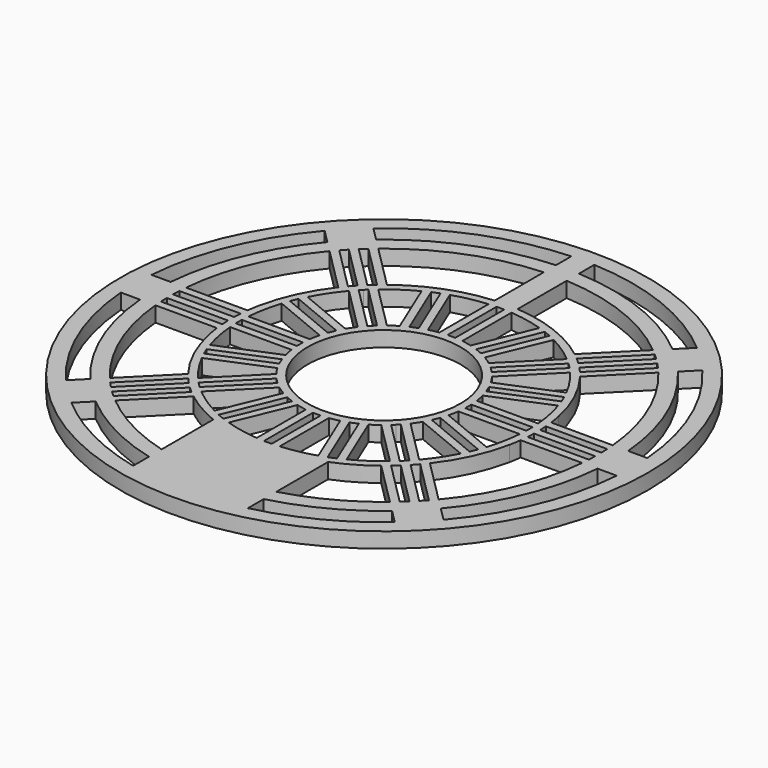
from build123d import *

# Parameters (mm, degrees)
F0_R      = 10
F1_DEPTH  = 2
F3_DEPTH  = 25
F5_DEPTH  = 25
F6_R      = 30
F6_R_2    = 28
F7_DEPTH  = 2
F9_DEPTH  = 25
F10_R     = 34.5
F10_R_2   = 28
F11_DEPTH = 2


with BuildPart() as f1:
    # F0 (on Top) → F1 (new body)
    with BuildSketch(Plane.XY):
        with BuildLine():
            ThreePointArc((0, 30), (-0.750235, 29.990618), (-1.5, 29.962477))
            Line((-1.5, 29.962477), (-1.5, 19.943671))
            ThreePointArc((-1.5, 19.943671), (-7.186984, 18.664063), (-12.263448, 15.798982))
            Line((-12.263448, 15.798982), (-19.371651, 22.907185))
            ThreePointArc((-19.371651, 22.907185), (-21.213203, 21.213203), (-22.907185, 19.371651))
            Line((-22.907185, 19.371651), (-15.798982, 12.263448))
            ThreePointArc((-15.798982, 12.263448), (-18.173356, 8.350396), (-19.595918, 4))
            ThreePointArc((-19.595918, 4), (-19.733784, 3.25235), (-19.843135, 2.5))
            Line((-19.843135, 2.5), (-29.895652, 2.5))
            ThreePointArc((-29.895652, 2.5), (-30, 0), (-29.895652, -2.5))
            Line((-29.895652, -2.5), (-19.843135, -2.5))
            ThreePointArc((-19.843135, -2.5), (-19.733784, -3.25235), (-19.595918, -4))
            ThreePointArc((-19.595918, -4), (-18.173356, -8.350396), (-15.798982, -12.263448))
            Line((-15.798982, -12.263448), (-22.907185, -19.371651))
            ThreePointArc((-22.907185, -19.371651), (-21.213203, -21.213203), (-19.371651, -22.907185))
            Line((-19.371651, -22.907185), (-12.263448, -15.798982))
            ThreePointArc((-12.263448, -15.798982), (-9.976344, -17.334144), (-7.5, -18.540496))
            Line((-7.5, -18.540496), (-7.5, -29.047375))
            ThreePointArc((-7.5, -29.047375), (0, -30), (7.5, -29.047375))
            Line((7.5, -29.047375), (7.5, -18.540496))
            ThreePointArc((7.5, -18.540496), (9.976344, -17.334144), (12.263448, -15.798982))
            Line((12.263448, -15.798982), (19.371651, -22.907185))
            ThreePointArc((19.371651, -22.907185), (21.213203, -21.213203), (22.907185, -19.371651))
            Line((22.907185, -19.371651), (15.798982, -12.263448))
            ThreePointArc((15.798982, -12.263448), (18.173356, -8.350396), (19.595918, -4))
            ThreePointArc((19.595918, -4), (19.733784, -3.25235), (19.843135, -2.5))
            Line((19.843135, -2.5), (29.895652, -2.5))
            ThreePointArc((29.895652, -2.5), (30, 0), (29.895652, 2.5))
            Line((29.895652, 2.5), (19.843135, 2.5))
            ThreePointArc((19.843135, 2.5), (19.733784, 3.25235), (19.595918, 4))
            ThreePointArc((19.595918, 4), (18.173356, 8.350396), (15.798982, 12.263448))
            Line((15.798982, 12.263448), (22.907185, 19.371651))
            ThreePointArc((22.907185, 19.371651), (21.213203, 21.213203), (19.371651, 22.907185))
            Line((19.371651, 22.907185), (12.263448, 15.798982))
            ThreePointArc((12.263448, 15.798982), (7.186984, 18.664063), (1.5, 19.943671))
            Line((1.5, 19.943671), (1.5, 29.962477))
            ThreePointArc((1.5, 29.962477), (0.750235, 29.990618), (0, 30))
        make_face()
        Circle(F0_R, mode=Mode.SUBTRACT)
    extrude(amount=F1_DEPTH)

    # F2 (on face) → F3 (cut)
    with BuildSketch(Plane.XY.offset(2)):
        Polygon((0, 19), (-0.5, 19), (-0.5, 11), (0, 11), (0.5, 11), (0.5, 19), align=None)
        Polygon((4.671458, 9.971333), (7.732925, 17.362369), (7.270985, 17.553711), (6.809045, 17.745053), (3.747578, 10.354017), (4.209518, 10.162675), align=None)
        Polygon((8.131728, 7.424621), (13.788582, 13.081475), (13.435029, 13.435029), (13.081475, 13.788582), (7.424621, 8.131728), (7.778175, 7.778175), align=None)
        Polygon((10.354017, 3.747578), (17.745053, 6.809045), (17.553711, 7.270985), (17.362369, 7.732925), (9.971333, 4.671458), (10.162675, 4.209518), align=None)
        Polygon((11, -0.5), (19, -0.5), (19, 0), (19, 0.5), (11, 0.5), (11, 0), align=None)
        Polygon((9.971333, -4.671458), (17.362369, -7.732925), (17.553711, -7.270985), (17.745053, -6.809045), (10.354017, -3.747578), (10.162675, -4.209518), align=None)
        Polygon((7.424621, -8.131728), (13.081475, -13.788582), (13.435029, -13.435029), (13.788582, -13.081475), (8.131728, -7.424621), (7.778175, -7.778175), align=None)
        Polygon((3.747578, -10.354017), (6.809045, -17.745053), (7.270985, -17.553711), (7.732925, -17.362369), (4.671458, -9.971333), (4.209518, -10.162675), align=None)
        Polygon((-0.5, -11), (-0.5, -19), (0, -19), (0.5, -19), (0.5, -11), (0, -11), align=None)
        Polygon((-13.435029, 13.435029), (-13.788582, 13.081475), (-8.131728, 7.424621), (-7.778175, 7.778175), (-7.424621, 8.131728), (-13.081475, 13.788582), align=None)
        Polygon((-11, 0.5), (-19, 0.5), (-19, 0), (-19, -0.5), (-11, -0.5), (-11, 0), align=None)
        Polygon((-10.354017, -3.747578), (-17.745053, -6.809045), (-17.553711, -7.270985), (-17.362369, -7.732925), (-9.971333, -4.671458), (-10.162675, -4.209518), align=None)
        Polygon((-7.778175, -7.778175), (-8.131728, -7.424621), (-13.788582, -13.081475), (-13.435029, -13.435029), (-13.081475, -13.788582), (-7.424621, -8.131728), align=None)
        Polygon((-17.553711, 7.270985), (-17.745053, 6.809045), (-10.354017, 3.747578), (-10.162675, 4.209518), (-9.971333, 4.671458), (-17.362369, 7.732925), align=None)
        Polygon((-7.270985, -17.553711), (-6.809045, -17.745053), (-3.747578, -10.354017), (-4.209518, -10.162675), (-4.671458, -9.971333), (-7.732925, -17.362369), align=None)
        Polygon((-7.270985, 17.553711), (-7.732925, 17.362369), (-4.671458, 9.971333), (-4.209518, 10.162675), (-3.747578, 10.354017), (-6.809045, 17.745053), align=None)
    extrude(amount=-F3_DEPTH, mode=Mode.SUBTRACT)

    # F4 (on face) → F5 (cut)
    with BuildSketch(Plane.XY.offset(2)):
        with BuildLine():
            ThreePointArc((-2.788764, 10.652361), (-2.148209, 10.799778), (-1.5, 10.908712))
            Line((-1.5, 10.908712), (-1.5, 18.93245))
            ThreePointArc((-1.5, 18.93245), (-3.705112, 18.626857), (-5.859316, 18.065328))
            Line((-5.859316, 18.065328), (-2.788764, 10.652361))
        make_face()
        with BuildLine():
            Line((2.788764, 10.652361), (5.859316, 18.065328))
            ThreePointArc((5.859316, 18.065328), (3.705112, 18.626857), (1.5, 18.93245))
            Line((1.5, 18.93245), (1.5, 10.908712))
            ThreePointArc((1.5, 10.908712), (2.148209, 10.799778), (2.788764, 10.652361))
        make_face()
        with BuildLine():
            Line((6.652964, 8.774284), (12.326604, 14.447924))
            ThreePointArc((12.326604, 14.447924), (10.551267, 15.791087), (8.630954, 16.917278))
            Line((8.630954, 16.917278), (5.560403, 9.504311))
            ThreePointArc((5.560403, 9.504311), (6.117583, 9.155609), (6.652964, 8.774284))
        make_face()
        with BuildLine():
            Line((9.504311, 5.560403), (16.917278, 8.630954))
            ThreePointArc((16.917278, 8.630954), (15.791087, 10.551267), (14.447924, 12.326604))
            Line((14.447924, 12.326604), (8.774284, 6.652964))
            ThreePointArc((8.774284, 6.652964), (9.155609, 6.117583), (9.504311, 5.560403))
        make_face()
        with BuildLine():
            Line((10.908712, 1.5), (18.93245, 1.5))
            ThreePointArc((18.93245, 1.5), (18.626857, 3.705112), (18.065328, 5.859316))
            Line((18.065328, 5.859316), (10.652361, 2.788764))
            ThreePointArc((10.652361, 2.788764), (10.799778, 2.148209), (10.908712, 1.5))
        make_face()
        with BuildLine():
            Line((10.652361, -2.788764), (18.065328, -5.859316))
            ThreePointArc((18.065328, -5.859316), (18.626857, -3.705112), (18.93245, -1.5))
            Line((18.93245, -1.5), (10.908712, -1.5))
            ThreePointArc((10.908712, -1.5), (10.799778, -2.148209), (10.652361, -2.788764))
        make_face()
        with BuildLine():
            Line((8.774284, -6.652964), (14.447924, -12.326604))
            ThreePointArc((14.447924, -12.326604), (15.791087, -10.551267), (16.917278, -8.630954))
            Line((16.917278, -8.630954), (9.504311, -5.560403))
            ThreePointArc((9.504311, -5.560403), (9.155609, -6.117583), (8.774284, -6.652964))
        make_face()
        with BuildLine():
            Line((5.560403, -9.504311), (8.630954, -16.917278))
            ThreePointArc((8.630954, -16.917278), (10.551267, -15.791087), (12.326604, -14.447924))
            Line((12.326604, -14.447924), (6.652964, -8.774284))
            ThreePointArc((6.652964, -8.774284), (6.117583, -9.155609), (5.560403, -9.504311))
        make_face()
        with BuildLine():
            Line((1.5, -10.908712), (1.5, -18.93245))
            ThreePointArc((1.5, -18.93245), (3.705112, -18.626857), (5.859316, -18.065328))
            Line((5.859316, -18.065328), (2.788764, -10.652361))
            ThreePointArc((2.788764, -10.652361), (2.148209, -10.799778), (1.5, -10.908712))
        make_face()
        with BuildLine():
            ThreePointArc((-8.630954, 16.917278), (-10.551267, 15.791087), (-12.326604, 14.447924))
            Line((-12.326604, 14.447924), (-6.652964, 8.774284))
            ThreePointArc((-6.652964, 8.774284), (-6.117583, 9.155609), (-5.560403, 9.504311))
            Line((-5.560403, 9.504311), (-8.630954, 16.917278))
        make_face()
        with BuildLine():
            Line((-18.93245, 1.5), (-10.908712, 1.5))
            ThreePointArc((-10.908712, 1.5), (-10.799778, 2.148209), (-10.652361, 2.788764))
            Line((-10.652361, 2.788764), (-18.065328, 5.859316))
            ThreePointArc((-18.065328, 5.859316), (-18.626857, 3.705112), (-18.93245, 1.5))
        make_face()
        with BuildLine():
            Line((-14.447924, -12.326604), (-8.774284, -6.652964))
            ThreePointArc((-8.774284, -6.652964), (-9.155609, -6.117583), (-9.504311, -5.560403))
            Line((-9.504311, -5.560403), (-16.917278, -8.630954))
            ThreePointArc((-16.917278, -8.630954), (-15.791087, -10.551267), (-14.447924, -12.326604))
        make_face()
        with BuildLine():
            Line((-18.065328, -5.859316), (-10.652361, -2.788764))
            ThreePointArc((-10.652361, -2.788764), (-10.799778, -2.148209), (-10.908712, -1.5))
            Line((-10.908712, -1.5), (-18.93245, -1.5))
            ThreePointArc((-18.93245, -1.5), (-18.626857, -3.705112), (-18.065328, -5.859316))
        make_face()
        with BuildLine():
            Line((-16.917278, 8.630954), (-9.504311, 5.560403))
            ThreePointArc((-9.504311, 5.560403), (-9.155609, 6.117583), (-8.774284, 6.652964))
            Line((-8.774284, 6.652964), (-14.447924, 12.326604))
            ThreePointArc((-14.447924, 12.326604), (-15.791087, 10.551267), (-16.917278, 8.630954))
        make_face()
        with BuildLine():
            ThreePointArc((-12.326604, -14.447924), (-10.551267, -15.791087), (-8.630954, -16.917278))
            Line((-8.630954, -16.917278), (-5.560403, -9.504311))
            ThreePointArc((-5.560403, -9.504311), (-6.117583, -9.155609), (-6.652964, -8.774284))
            Line((-6.652964, -8.774284), (-12.326604, -14.447924))
        make_face()
        with BuildLine():
            ThreePointArc((-1.5, -10.908712), (-2.148209, -10.799778), (-2.788764, -10.652361))
            Line((-2.788764, -10.652361), (-5.859316, -18.065328))
            ThreePointArc((-5.859316, -18.065328), (-3.705112, -18.626857), (-1.5, -18.93245))
            Line((-1.5, -18.93245), (-1.5, -10.908712))
        make_face()
    extrude(amount=-F5_DEPTH, mode=Mode.SUBTRACT)

    # F6 (on Top) → F7 (join)
    with BuildSketch(Plane.XY):
        Circle(F6_R)
        Circle(F6_R_2, mode=Mode.SUBTRACT)
    extrude(amount=F7_DEPTH)

    # F8 (on face) → F9 (cut)
    with BuildSketch(Plane.XY.offset(2)):
        with BuildLine():
            ThreePointArc((-19.993749, 0.5), (-19.974969, 1.000313), (-19.943671, 1.5))
            Line((-19.943671, 1.5), (-27.959793, 1.5))
            ThreePointArc((-27.959793, 1.5), (-27.982131, 1.00016), (-27.995535, 0.5))
            Line((-27.995535, 0.5), (-19.993749, 0.5))
        make_face()
        with BuildLine():
            ThreePointArc((-19.943671, -1.5), (-19.974969, -1.000313), (-19.993749, -0.5))
            Line((-19.993749, -0.5), (-27.995535, -0.5))
            ThreePointArc((-27.995535, -0.5), (-27.982131, -1.00016), (-27.959793, -1.5))
            Line((-27.959793, -1.5), (-19.943671, -1.5))
        make_face()
        with BuildLine():
            Line((27.959793, 1.5), (19.943671, 1.5))
            ThreePointArc((19.943671, 1.5), (19.974969, 1.000313), (19.993749, 0.5))
            Line((19.993749, 0.5), (27.995535, 0.5))
            ThreePointArc((27.995535, 0.5), (27.982131, 1.00016), (27.959793, 1.5))
        make_face()
        with BuildLine():
            Line((27.995535, -0.5), (19.993749, -0.5))
            ThreePointArc((19.993749, -0.5), (19.974969, -1.000313), (19.943671, -1.5))
            Line((19.943671, -1.5), (27.959793, -1.5))
            ThreePointArc((27.959793, -1.5), (27.982131, -1.00016), (27.995535, -0.5))
        make_face()
        with BuildLine():
            ThreePointArc((-15.162965, 13.041645), (-14.831764, 13.417107), (-14.491269, 13.784162))
            Line((-14.491269, 13.784162), (-20.149386, 19.44228))
            ThreePointArc((-20.149386, 19.44228), (-20.493575, 19.079135), (-20.831219, 18.709899))
            Line((-20.831219, 18.709899), (-15.162965, 13.041645))
        make_face()
        with BuildLine():
            ThreePointArc((-13.784162, 14.491269), (-13.417107, 14.831764), (-13.041645, 15.162965))
            Line((-13.041645, 15.162965), (-18.709899, 20.831219))
            ThreePointArc((-18.709899, 20.831219), (-19.079135, 20.493575), (-19.44228, 20.149386))
            Line((-19.44228, 20.149386), (-13.784162, 14.491269))
        make_face()
        with BuildLine():
            Line((-18.709899, -20.831219), (-13.041645, -15.162965))
            ThreePointArc((-13.041645, -15.162965), (-13.417107, -14.831764), (-13.784162, -14.491269))
            Line((-13.784162, -14.491269), (-19.44228, -20.149386))
            ThreePointArc((-19.44228, -20.149386), (-19.079135, -20.493575), (-18.709899, -20.831219))
        make_face()
        with BuildLine():
            Line((-20.149386, -19.44228), (-14.491269, -13.784162))
            ThreePointArc((-14.491269, -13.784162), (-14.831764, -13.417107), (-15.162965, -13.041645))
            Line((-15.162965, -13.041645), (-20.831219, -18.709899))
            ThreePointArc((-20.831219, -18.709899), (-20.493575, -19.079135), (-20.149386, -19.44228))
        make_face()
        with BuildLine():
            Line((18.709899, 20.831219), (13.041645, 15.162965))
            ThreePointArc((13.041645, 15.162965), (13.417107, 14.831764), (13.784162, 14.491269))
            Line((13.784162, 14.491269), (19.44228, 20.149386))
            ThreePointArc((19.44228, 20.149386), (19.079135, 20.493575), (18.709899, 20.831219))
        make_face()
        with BuildLine():
            Line((20.149386, 19.44228), (14.491269, 13.784162))
            ThreePointArc((14.491269, 13.784162), (14.831764, 13.417107), (15.162965, 13.041645))
            Line((15.162965, 13.041645), (20.831219, 18.709899))
            ThreePointArc((20.831219, 18.709899), (20.493575, 19.079135), (20.149386, 19.44228))
        make_face()
        with BuildLine():
            ThreePointArc((13.784162, -14.491269), (13.417107, -14.831764), (13.041645, -15.162965))
            Line((13.041645, -15.162965), (18.709899, -20.831219))
            ThreePointArc((18.709899, -20.831219), (19.079135, -20.493575), (19.44228, -20.149386))
            Line((19.44228, -20.149386), (13.784162, -14.491269))
        make_face()
        with BuildLine():
            ThreePointArc((15.162965, -13.041645), (14.831764, -13.417107), (14.491269, -13.784162))
            Line((14.491269, -13.784162), (20.149386, -19.44228))
            ThreePointArc((20.149386, -19.44228), (20.493575, -19.079135), (20.831219, -18.709899))
            Line((20.831219, -18.709899), (15.162965, -13.041645))
        make_face()
    extrude(amount=-F9_DEPTH, mode=Mode.SUBTRACT)

    # F10 (on Top) → F11 (join)
    with BuildSketch(Plane.XY):
        Circle(F10_R)
        with BuildLine():
            Line((-21.145112, -24.680645), (-19.371651, -22.907185))
            ThreePointArc((-19.371651, -22.907185), (-13.782122, -26.646822), (-7.5, -29.047375))
            Line((-7.5, -29.047375), (-7.5, -31.622777))
            ThreePointArc((-7.5, -31.622777), (-14.737161, -28.966638), (-21.145112, -24.680645))
        make_face(mode=Mode.SUBTRACT)
        with BuildLine():
            Line((-32.403703, -2.5), (-29.895652, -2.5))
            ThreePointArc((-29.895652, -2.5), (-27.716386, -11.480503), (-22.907185, -19.371651))
            Line((-22.907185, -19.371651), (-24.680645, -21.145112))
            ThreePointArc((-24.680645, -21.145112), (-30.026085, -12.437212), (-32.403703, -2.5))
        make_face(mode=Mode.SUBTRACT)
        with BuildLine():
            ThreePointArc((7.5, -29.047375), (13.782122, -26.646822), (19.371651, -22.907185))
            Line((19.371651, -22.907185), (21.145112, -24.680645))
            ThreePointArc((21.145112, -24.680645), (14.737161, -28.966638), (7.5, -31.622777))
            Line((7.5, -31.622777), (7.5, -29.047375))
        make_face(mode=Mode.SUBTRACT)
        with BuildLine():
            ThreePointArc((22.907185, -19.371651), (27.716386, -11.480503), (29.895652, -2.5))
            Line((29.895652, -2.5), (32.403703, -2.5))
            ThreePointArc((32.403703, -2.5), (30.026085, -12.437212), (24.680645, -21.145112))
            Line((24.680645, -21.145112), (22.907185, -19.371651))
        make_face(mode=Mode.SUBTRACT)
        with BuildLine():
            ThreePointArc((-32.403703, 2.5), (-30.026085, 12.437212), (-24.680645, 21.145112))
            Line((-24.680645, 21.145112), (-22.907185, 19.371651))
            ThreePointArc((-22.907185, 19.371651), (-27.716386, 11.480503), (-29.895652, 2.5))
            Line((-29.895652, 2.5), (-32.403703, 2.5))
        make_face(mode=Mode.SUBTRACT)
        with BuildLine():
            ThreePointArc((-1.5, 29.962477), (-11.015931, 27.904287), (-19.371651, 22.907185))
            Line((-19.371651, 22.907185), (-21.145112, 24.680645))
            ThreePointArc((-21.145112, 24.680645), (-11.972917, 30.214223), (-1.5, 32.465366))
            Line((-1.5, 32.465366), (-1.5, 29.962477))
        make_face(mode=Mode.SUBTRACT)
        Circle(F10_R_2, mode=Mode.SUBTRACT)
        with BuildLine():
            ThreePointArc((29.895652, 2.5), (27.716386, 11.480503), (22.907185, 19.371651))
            Line((22.907185, 19.371651), (24.680645, 21.145112))
            ThreePointArc((24.680645, 21.145112), (30.026085, 12.437212), (32.403703, 2.5))
            Line((32.403703, 2.5), (29.895652, 2.5))
        make_face(mode=Mode.SUBTRACT)
        with BuildLine():
            Line((21.145112, 24.680645), (19.371651, 22.907185))
            ThreePointArc((19.371651, 22.907185), (11.015931, 27.904287), (1.5, 29.962477))
            Line((1.5, 29.962477), (1.5, 32.465366))
            ThreePointArc((1.5, 32.465366), (11.972917, 30.214223), (21.145112, 24.680645))
        make_face(mode=Mode.SUBTRACT)
    extrude(amount=F11_DEPTH)


solid = f1.part
